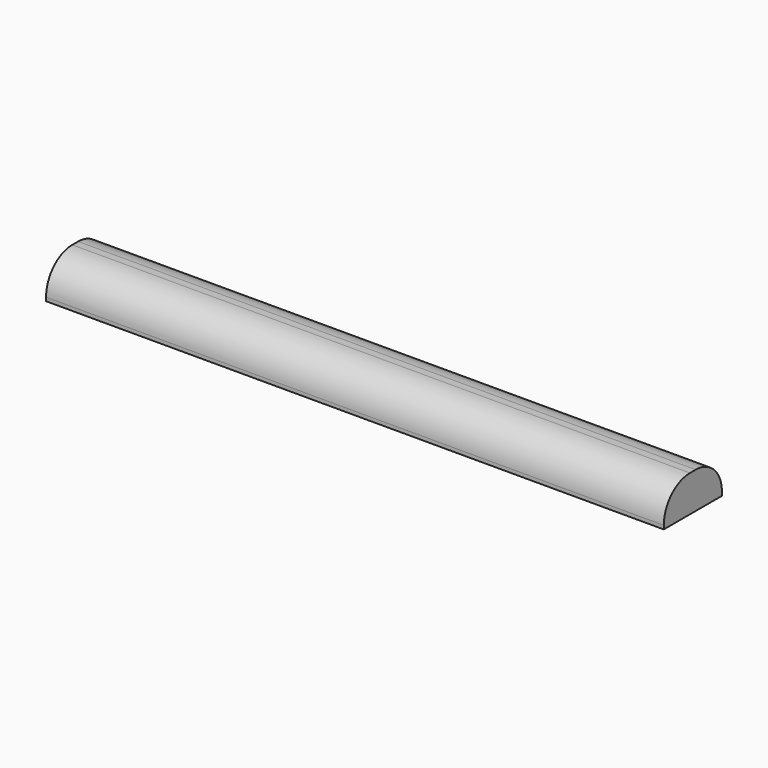
from build123d import *

# Parameters (mm, degrees)
BOX006_W     = 17
BOX006_H     = 2
BOX006_DEPTH = 1
FILLET008_R  = 0.9
FILLET009_R  = 0.9


with BuildPart() as part:
    # Box006 → Box006 (new body)
    with BuildSketch(Plane(origin=(-31, -4.75, 3), x_dir=(1, 0, 0), z_dir=(0, 0, 1))):
        with Locations((8.5, 1)):
            Rectangle(BOX006_W, BOX006_H)
    extrude(amount=BOX006_DEPTH)

    # Fillet008
    fillet008_edges = [part.edges().sort_by_distance(p)[0] for p in [
        (-22.5, -4.75, 4),
    ]]
    fillet(fillet008_edges, radius=FILLET008_R)

    # Fillet009
    fillet009_edges = [part.edges().sort_by_distance(p)[0] for p in [
        (-22.5, -2.75, 4),
    ]]
    fillet(fillet009_edges, radius=FILLET009_R)


with BuildPart() as part_1:
    # Fillet009 placement: moved
    add(part.part.moved(Location((0, 7.5, 0))))


solid = part_1.part
